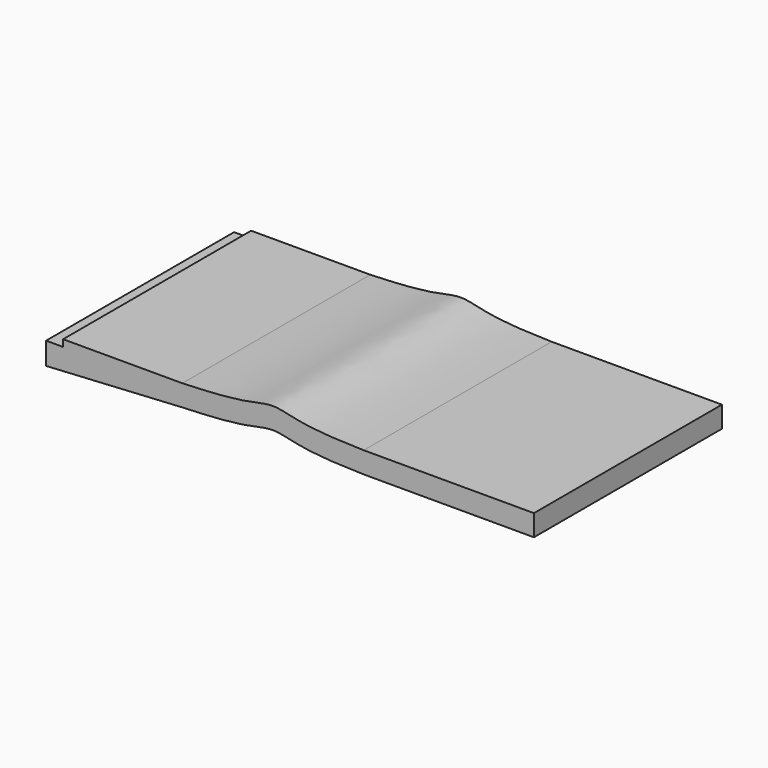
from build123d import *

# Parameters (mm, degrees)
PAD_DEPTH = 13.8


with BuildPart() as part:
    # Sketch → Pad (new body)
    with BuildSketch(Plane.XZ):
        with BuildLine():
            Line((1, -0.4), (1, 0))
            Line((1, 0), (8, 0))
            add(Edge.make_bspline(
                [(18.65, 0), (16.551038, 0.042752), (14.664511, 0.25382), (13.32, 0.7), (11.950524, 0.264498), (9.995746, 0.073969), (8, 0)],
                knots=[0, 0, 0, 0, 0.25, 0.5, 0.75, 1, 1, 1, 1], degree=3))
            Line((18.65, 0), (28.65, 0))
            Line((28.65, 0), (28.65, -1.25))
            Line((28.65, -1.25), (18.65, -1.25))
            add(Edge.make_bspline(
                [(18.65, -1.25), (16.551038, -1.207248), (14.664511, -0.99618), (13.32, -0.55), (11.950524, -0.985502), (9.995746, -1.176031), (8, -1.25)],
                knots=[0, 0, 0, 0, 0.25, 0.5, 0.75, 1, 1, 1, 1], degree=3))
            Line((8, -1.25), (1, -1.65))
            Line((1, -1.65), (0, -1.707143))
            Line((0, -1.707143), (0, -0.4))
            Line((0, -0.4), (1, -0.4))
        make_face()
    extrude(amount=PAD_DEPTH)


solid = part.part
